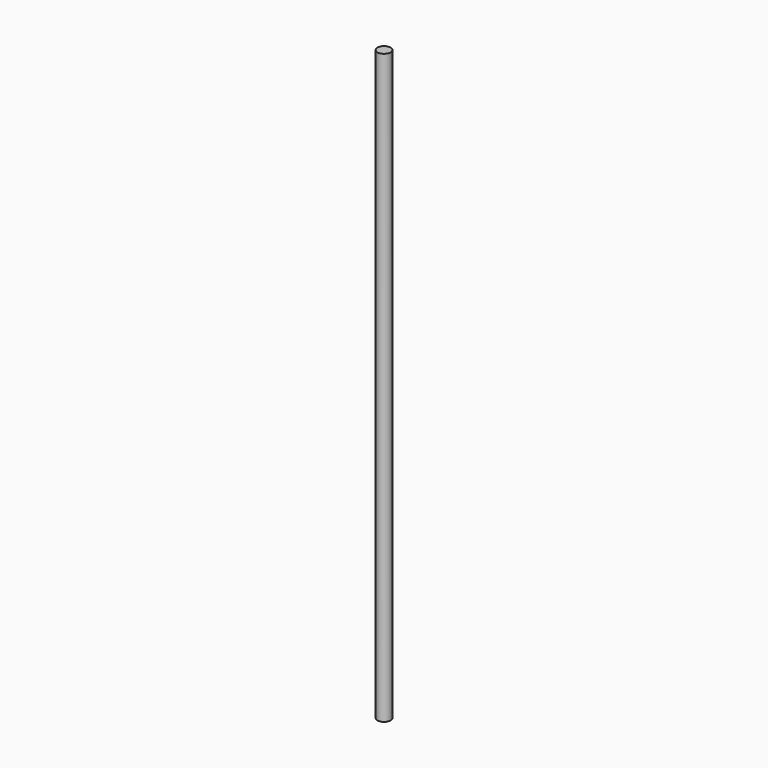
from build123d import *

# Parameters (mm, degrees)
SKETCH_R  = 6
PAD_DEPTH = 538


with BuildPart() as part:
    # Sketch → Pad (new body)
    with BuildSketch(Plane.XY):
        Circle(SKETCH_R)
    extrude(amount=PAD_DEPTH)


solid = part.part
